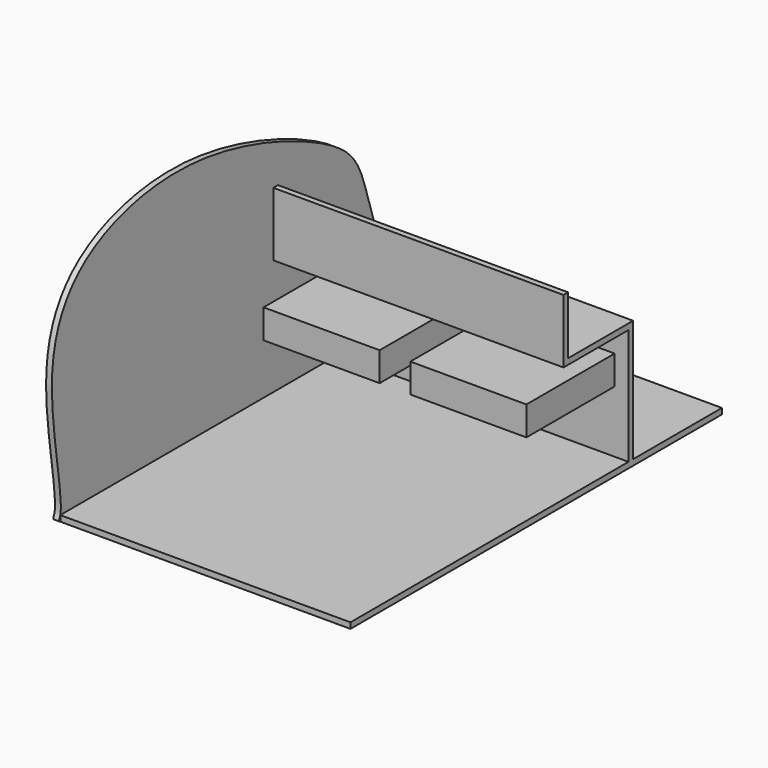
from build123d import *

# Parameters (mm, degrees)
F0_W           = 127
F0_H           = 203.2
F1_DEPTH       = 2.54
F2_W           = 127
F2_H           = 2.54
F3_DEPTH       = 50.8
F4_W           = 127
F4_H           = 38.1
F5_DEPTH       = 2.54
F7_DEPTH       = 2.54
F8_W           = 127
F8_H           = 2.54
F9_DEPTH       = 25.4
F10_W          = 50.8
F10_H          = 12.7
F11_DEPTH      = 2.54
F11_DEPTH_BACK = 50.8


with BuildPart() as f1:
    # F0 (on Top) → F1 (new body)
    with BuildSketch(Plane.XY):
        Rectangle(F0_W, F0_H)
    extrude(amount=F1_DEPTH)

    # F2 (on face) → F3 (join)
    with BuildSketch(Plane.XY.offset(2.54)):
        with Locations((0, 51.7598838699)):
            Rectangle(F2_W, F2_H)
    extrude(amount=F3_DEPTH)

    # F4 (on face) + F0 (on Top) + F2 (on face) → F5 (join)
    with BuildSketch(Plane.XY.offset(53.34)):
        with Locations((0, 33.9798838699)):
            Rectangle(F4_W, F4_H)
    with BuildSketch(Plane.XY):
        Rectangle(F0_W, F0_H)
    with BuildSketch(Plane.XY.offset(2.54)):
        with Locations((0, 51.7598838699)):
            Rectangle(F2_W, F2_H)
    extrude(amount=F5_DEPTH)

    # F6 (on face) → F7 (join)
    with BuildSketch(Plane(origin=(-63.5, 0, 0), x_dir=(0, -1, 0), z_dir=(-1, 0, 0))):
        with BuildLine():
            add(Edge.make_bspline(
                [(-101.6, 2.54), (-99.3647436301, 6.728429382), (-70.9317534832, 29.8683524105), (-65.5362404046, 69.1074345085), (-46.8035396581, 87.973569814), (26.4272487348, 116.301531848), (93.1459015522, 101.0522593109), (112.3726122416, 58.4801237002), (98.4065849453, 3.6036158941), (109.770472408, -4.481639591), (-97.7308558654, -3.5327403626), (-102.3556856326, 1.1239942345), (-101.6, 2.54)],
                knots=[0, 0, 0, 0, 0.0929001726, 0.1887097827, 0.2638217793, 0.3969667479, 0.5180910312, 0.6187852411, 0.7289666421, 0.7532474092, 0.9685927187, 1, 1, 1, 1], degree=3))
        make_face()
    extrude(amount=F7_DEPTH)

    # F8 (on face) → F9 (join)
    with BuildSketch(Plane.XY.offset(55.88)):
        with Locations((0, 16.1998838699)):
            Rectangle(F8_W, F8_H)
    extrude(amount=F9_DEPTH)

    # F10 (on face) → F11 (join, two sides)
    with BuildSketch(Plane(origin=(0, 53.0298838699, 0), x_dir=(-1, 0, 0), z_dir=(0, 1, 0))) as f11_sk:
        with Locations((-32.030521892, 35.9458463256)):
            Rectangle(F10_W, F10_H)
        with Locations((32.1990380339, 35.9458463256)):
            Rectangle(F10_W, F10_H)
    extrude(amount=F11_DEPTH)
    extrude(f11_sk.sketch, amount=-F11_DEPTH_BACK)


solid = f1.part
